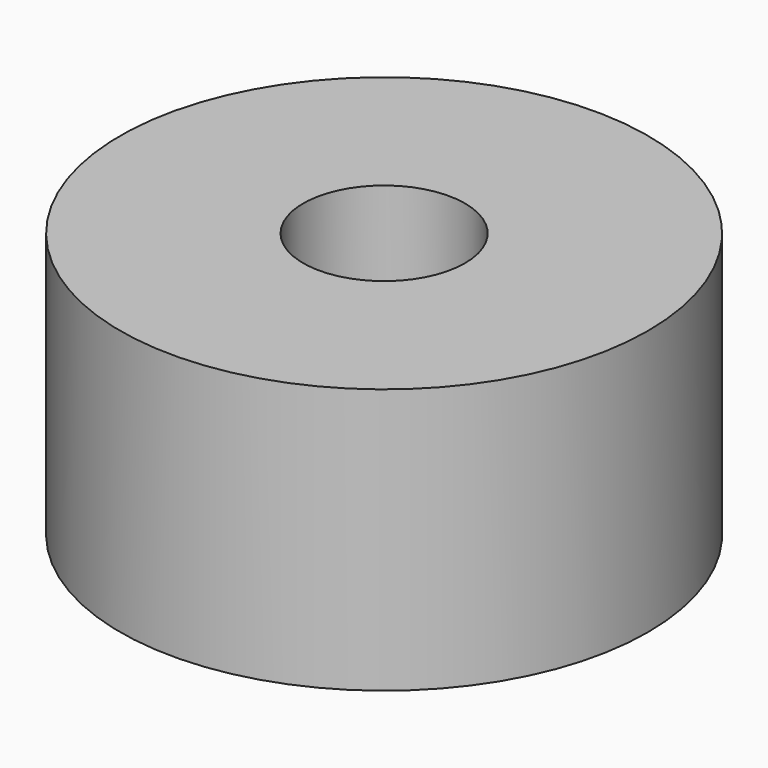
from build123d import *

# Parameters (mm, degrees)
SKETCH001_R   = 9.95
SKETCH001_R_2 = 3.05
PAD_DEPTH     = 10


with BuildPart() as part:
    # Sketch001 → Pad (new body)
    with BuildSketch(Plane.XY.offset(8)):
        Circle(SKETCH001_R)
        Circle(SKETCH001_R_2, mode=Mode.SUBTRACT)
    extrude(amount=PAD_DEPTH)


solid = part.part
